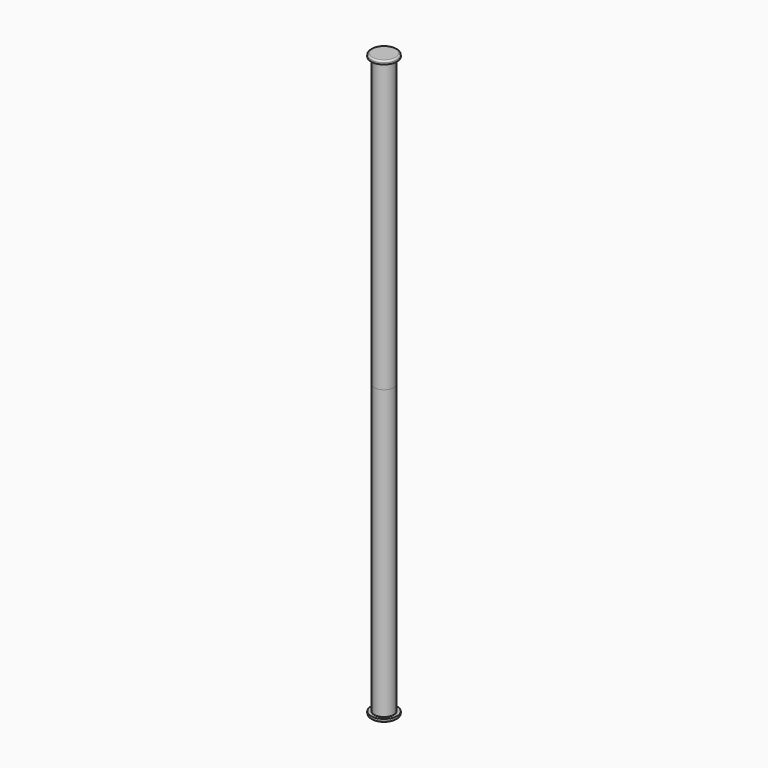
from build123d import *

# Parameters (mm, degrees)
F0_R     = 2.38125
F1_DEPTH = 69.85
F2_R     = 3.175
F3_DEPTH = 0.79375
F4_R     = 0.396875


with BuildPart() as f1:
    # F0 (on Top) → F1 (new body)
    with BuildSketch(Plane.XY):
        Circle(F0_R)
    extrude(amount=F1_DEPTH)

    # F2 (on face) → F3 (join)
    with BuildSketch(Plane(origin=(0, 0, 0), x_dir=(1, 0, 0), z_dir=(0, 0, -1))):
        Circle(F2_R)
    extrude(amount=F3_DEPTH)

    # F4
    f4_edges = [f1.edges().sort_by_distance(p)[0] for p in [
        (-3.175, 0, -0.79375),
    ]]
    fillet(f4_edges, radius=F4_R)

    # F5: F1 across face


with BuildPart() as f1_1:
    add(f1.part)
    add(f1.part.mirror(Plane.XY.offset(69.85)))


solid = f1_1.part
